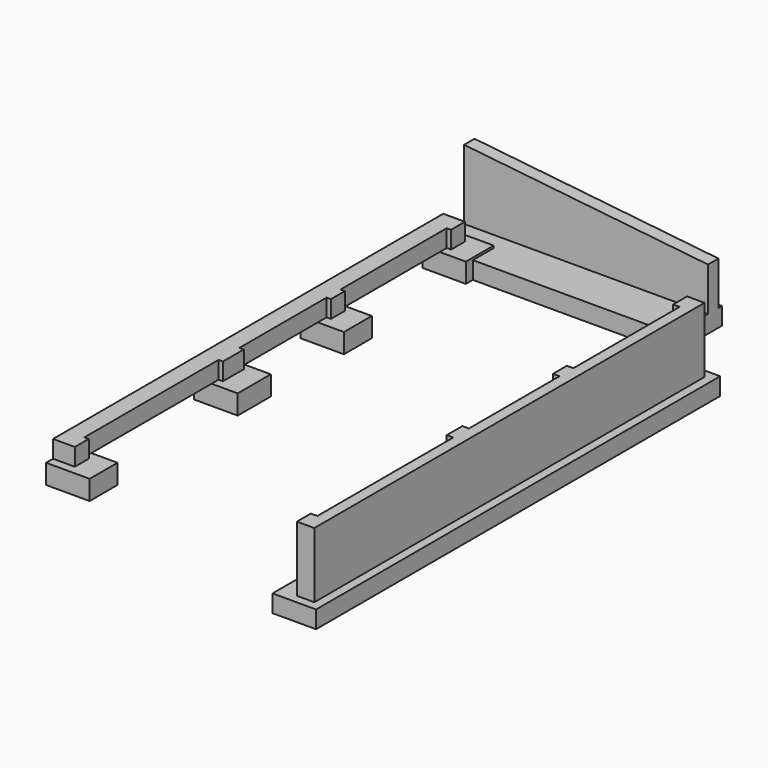
from build123d import *

# Parameters (mm, degrees)
F1_START = -0.15
F1_DEPTH = 0.4
F2_DEPTH = 1.5
F4_START = -0.55
F3_W     = 1
F3_H     = 0.7999996393
F3_H_2   = 0.95
F3_H_3   = 0.8
F4_DEPTH = 0.45
F5_START = -1.5
F3_H_4   = 11.6
F5_DEPTH = 0.4
F7_START = -0.6
F7_DEPTH = 0.4
F9_START = -1
F9_DEPTH = 0.3


with BuildPart() as f1:
    # F0 (on Top) → F1 (new body)
    with BuildSketch(Plane.XY.offset(F1_START)):
        Polygon((0, 11.2), (0, 0), (0.5, 0), (0.5, 0.4), (0.4, 0.4), (0.4, 4.25), (0.5, 4.25), (0.5, 4.85), (0.4, 4.85), (0.4, 7.35), (0.5, 7.35), (0.5, 7.75), (0.4, 7.75), (0.4, 10.8), (0.5, 10.8), (0.5, 11.2), align=None)
    extrude(amount=-F1_DEPTH)

    # F3 (on Top) → F4 (join)
    with BuildSketch(Plane.XY.offset(F4_START)):
        with Locations((0.5, 0.1999998196)):
            Rectangle(F3_W, F3_H)
        with Locations((0.5, 4.525)):
            Rectangle(F3_W, F3_H_2)
        with Locations((0.5, 7.5)):
            Rectangle(F3_W, F3_H_3)
        with Locations((0.5, 11)):
            Rectangle(F3_W, F3_H_3)
    extrude(amount=-F4_DEPTH)


with BuildPart() as f2:
    # F0 (on Top) → F2 (new body)
    with BuildSketch(Plane.XY):
        Polygon((5.6, 0.4), (5.6, 0), (6, 0), (6, 11.2), (5.6, 11.2), (5.6, 10.8), (5.75, 10.8), (5.75, 7.75), (5.6, 7.75), (5.6, 7.35), (5.75, 7.35), (5.75, 4.75), (5.6, 4.75), (5.6, 4.3), (5.75, 4.3), (5.75, 0.4), align=None)
    extrude(amount=-F2_DEPTH)

    # F3 (on Top) → F5 (join)
    with BuildSketch(Plane.XY.offset(F5_START)):
        with Locations((5.7, 5.6)):
            Rectangle(F3_W, F3_H_4)
    extrude(amount=-F5_DEPTH)


with BuildPart() as f7:
    # F6 (on Top) → F7 (new body)
    with BuildSketch(Plane.XY.offset(F7_START)):
        Polygon((1, 10.8), (5.6, 10.8), (5.6, 12.2), (0, 12.2), (0, 11.4), (1, 11.4), align=None)
    extrude(amount=-F7_DEPTH)

    # F8 (on face) → F9 (join)
    with BuildSketch(Plane.XZ.offset(-10.8).offset(F9_START)):
        Polygon((1, -0.6), (5.6, -0.6), (5.6, 0.4), (0, 1), (0, -0.6), align=None)
    extrude(amount=-F9_DEPTH)


solid = Compound([f1.part, f2.part, f7.part])
